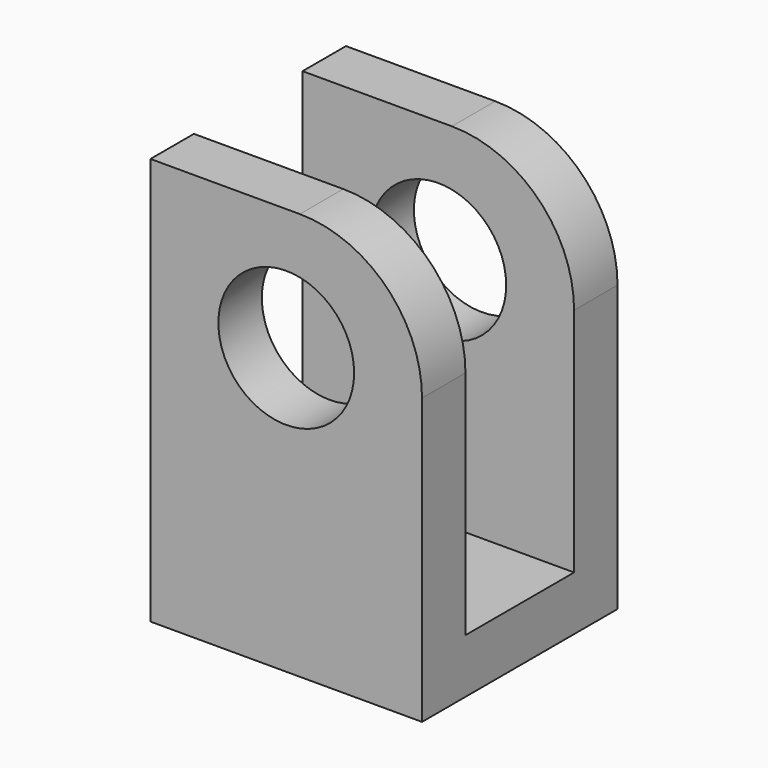
from build123d import *

# Parameters (mm, degrees)
F4_W      = 10
F4_H      = 15
F5_DEPTH  = 9
F6_R      = 2.5
F7_DEPTH  = 9.001
F8_R      = 4.5
F9_W      = 5
F9_H      = 13
F10_DEPTH = 10.001


with BuildPart() as f5:
    # F4 (on Front) → F5 (new body)
    with BuildSketch(Plane.XZ):
        with Locations((0, 7.5)):
            Rectangle(F4_W, F4_H)
    extrude(amount=F5_DEPTH)

    # F6 (on face) → F7 (cut, through all)
    with BuildSketch(Plane.XZ.offset(9)):
        with Locations((0, 10.5)):
            Circle(F6_R)
    extrude(amount=-F7_DEPTH, mode=Mode.SUBTRACT)

    # F8
    f8_edges = [f5.edges().sort_by_distance(p)[0] for p in [
        (5, -4.5, 15),
    ]]
    fillet(f8_edges, radius=F8_R)

    # F9 (on face) → F10 (cut, through all)
    with BuildSketch(Plane(origin=(-5, 0, 0), x_dir=(0, -1, 0), z_dir=(-1, 0, 0))):
        with Locations((4.5, 8.5)):
            Rectangle(F9_W, F9_H)
    extrude(amount=-F10_DEPTH, mode=Mode.SUBTRACT)


solid = f5.part
